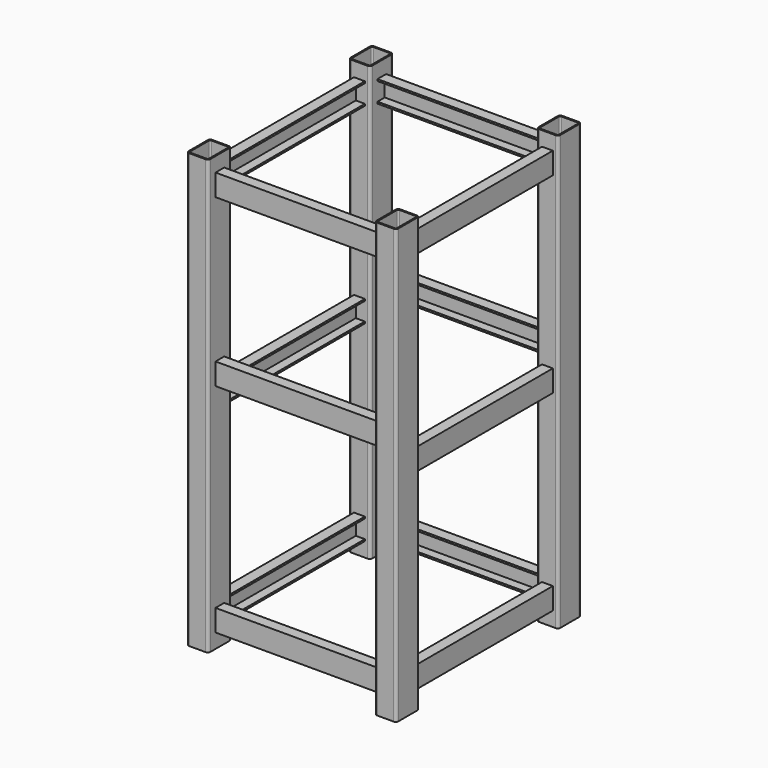
from build123d import *

# Parameters (mm, degrees)
F1_DEPTH  = 1524
F5_DEPTH  = 609.6
F11_DEPTH = 584.2
F16_R     = 71.4113893101
F17_DEPTH = 320.04


with BuildPart() as f1:
    # F0 (on Top) → F1 (new body)
    with BuildSketch(Plane.XY):
        with BuildLine():
            Line((358.775, -304.8), (301.625, -304.8))
            ThreePointArc((301.625, -304.8), (294.8898079092, -307.5898079092), (292.1, -314.325))
            Line((292.1, -314.325), (292.1, -396.875))
            ThreePointArc((292.1, -396.875), (294.8898079092, -403.6101920908), (301.625, -406.4))
            Line((301.625, -406.4), (358.775, -406.4))
            ThreePointArc((358.775, -406.4), (365.5101920908, -403.6101920908), (368.3, -396.875))
            Line((368.3, -396.875), (368.3, -314.325))
            ThreePointArc((368.3, -314.325), (365.5101920908, -307.5898079092), (358.775, -304.8))
        make_face()
        with BuildLine():
            ThreePointArc((296.8625, -314.325), (298.2574039546, -310.9574039546), (301.625, -309.5625))
            Line((301.625, -309.5625), (358.775, -309.5625))
            ThreePointArc((358.775, -309.5625), (362.1425960454, -310.9574039546), (363.5375, -314.325))
            Line((363.5375, -314.325), (363.5375, -396.875))
            ThreePointArc((363.5375, -396.875), (362.1425960454, -400.2425960454), (358.775, -401.6375))
            Line((358.775, -401.6375), (301.625, -401.6375))
            ThreePointArc((301.625, -401.6375), (298.2574039546, -400.2425960454), (296.8625, -396.875))
            Line((296.8625, -396.875), (296.8625, -314.325))
        make_face(mode=Mode.SUBTRACT)
    extrude(amount=F1_DEPTH)


with BuildPart() as f2_1:
    # F2: instance of F1
    add(f1.part.mirror(Plane.XZ))


with BuildPart() as f3_1:
    # F3: instance of F1
    add(f1.part.mirror(Plane.YZ))


with BuildPart() as f3_2:
    # F3: instance of F2_1
    add(f2_1.part.mirror(Plane.YZ))


with BuildPart() as f5:
    # F4 (on face) → F5 (new body)
    with BuildSketch(Plane.XZ.offset(-304.8)):
        Polygon((311.15, 57.15), (311.15, 50.8), (349.25, 50.8), (349.25, 127), (311.15, 127), (311.15, 120.65), (342.9, 120.65), (342.9, 57.15), align=None)
    extrude(amount=F5_DEPTH)


with BuildPart() as f7_1:
    # F7: instance of F5
    add(f5.part.mirror(Plane.XY.offset(762)))


with BuildPart() as f8_1:
    # F8: copy of F5
    add(f5.part.moved(Location((0, 0, 673.1))))


with BuildPart() as f9_1:
    # F9: instance of F8_1
    add(f8_1.part.mirror(Plane.YZ))


with BuildPart() as f9_2:
    # F9: instance of F7_1
    add(f7_1.part.mirror(Plane.YZ))


with BuildPart() as f9_3:
    # F9: instance of F5
    add(f5.part.mirror(Plane.YZ))


with BuildPart() as f11:
    # F10 (on face) → F11 (new body)
    with BuildSketch(Plane(origin=(292.1, 0, 0), x_dir=(0, -1, 0), z_dir=(-1, 0, 0))):
        Polygon((336.55, 57.15), (336.55, 50.8), (374.65, 50.8), (374.65, 127), (336.55, 127), (336.55, 120.65), (368.3, 120.65), (368.3, 57.15), align=None)
    extrude(amount=F11_DEPTH)


with BuildPart() as f12_1:
    # F12: copy of F11
    add(f11.part.moved(Location((0, 0, 762))))


with BuildPart() as f13_1:
    # F13: instance of F11
    add(f11.part.mirror(Plane.XY.offset(762)))


with BuildPart() as f1_1:
    add(f1.part)

    add(f2_1.part)  # F14 merges F2_1

    add(f3_1.part)  # F14 merges F3_1

    add(f3_2.part)  # F14 merges F3_2

    add(f5.part)  # F14 merges F5

    add(f7_1.part)  # F14 merges F7_1

    add(f8_1.part)  # F14 merges F8_1

    add(f9_1.part)  # F14 merges F9_1

    add(f9_2.part)  # F14 merges F9_2

    add(f9_3.part)  # F14 merges F9_3

    add(f11.part)  # F14 merges F11

    add(f12_1.part)  # F14 merges F12_1

    add(f13_1.part)  # F14 merges F13_1
    # F14: F11, F12_1, F13_1 across plane
    add(f11.part.mirror(Plane.XZ))
    add(f12_1.part.mirror(Plane.XZ))
    add(f13_1.part.mirror(Plane.XZ))


with BuildPart() as f17:
    # F16 (on offset) → F17 (new body)
    with BuildSketch(Plane.XZ.offset(501.65)):
        with Locations((0, 351.0118424892)):
            Circle(F16_R)
    extrude(amount=F17_DEPTH)


solid = f1_1.part
